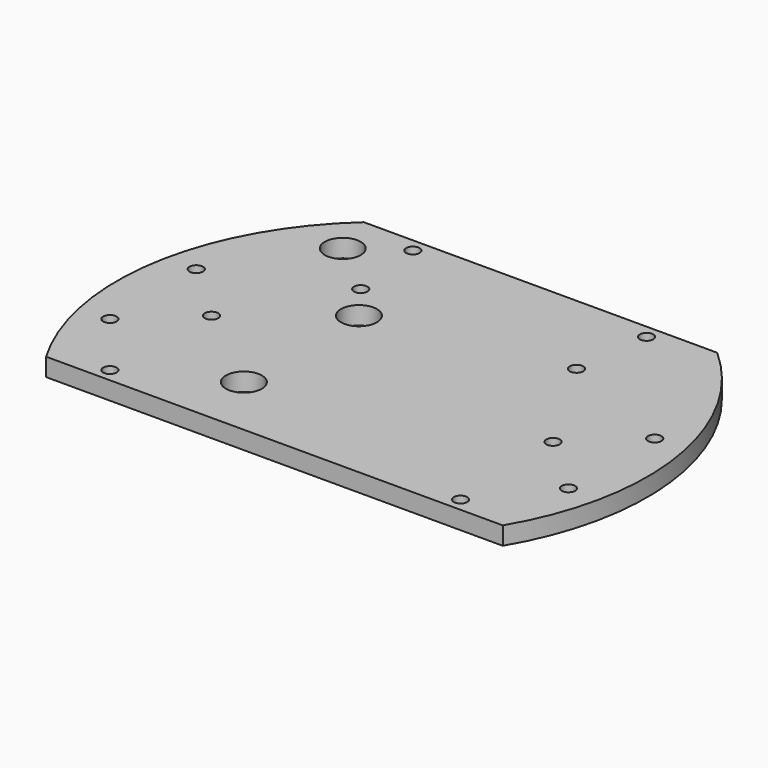
from build123d import *

# Parameters (mm, degrees)
CYLINDER1474_R     = 1.5
CYLINDER1474_DEPTH = 100
CYLINDER1473_R     = 1.5
CYLINDER1473_DEPTH = 100
CYLINDER1472_R     = 1.5
CYLINDER1472_DEPTH = 32
CYLINDER1471_R     = 1.5
CYLINDER1471_DEPTH = 32
BOX516_W           = 200
BOX516_H           = 100
BOX516_DEPTH       = 100
BOX515_W           = 200
BOX515_H           = 100
BOX515_DEPTH       = 100
CYLINDER1464_R     = 4
CYLINDER1464_DEPTH = 100
CYLINDER1465_R     = 4
CYLINDER1465_DEPTH = 100
CYLINDER1466_R     = 4
CYLINDER1466_DEPTH = 100
CYLINDER1467_R     = 4
CYLINDER1467_DEPTH = 100
CYLINDER1468_R     = 4
CYLINDER1468_DEPTH = 100
CYLINDER1469_R     = 4
CYLINDER1469_DEPTH = 100
CYLINDER1470_R     = 4
CYLINDER1470_DEPTH = 100
CYLINDER1463_R     = 4
CYLINDER1463_DEPTH = 100
CYLINDER1456_R     = 1.5
CYLINDER1456_DEPTH = 100
CYLINDER1457_R     = 1.5
CYLINDER1457_DEPTH = 100
CYLINDER1458_R     = 1.5
CYLINDER1458_DEPTH = 100
CYLINDER1459_R     = 1.5
CYLINDER1459_DEPTH = 100
CYLINDER1460_R     = 1.5
CYLINDER1460_DEPTH = 100
CYLINDER1461_R     = 1.5
CYLINDER1461_DEPTH = 100
CYLINDER1462_R     = 1.5
CYLINDER1462_DEPTH = 100
CYLINDER1455_R     = 1.5
CYLINDER1455_DEPTH = 100
CYLINDER1454_R     = 59
CYLINDER1454_DEPTH = 4


with BuildPart() as obj1:
    # Cylinder1474 → Cylinder1474 (new body)
    with BuildSketch(Plane(origin=(14, 0, -60), x_dir=(1, 0, 0), z_dir=(0, 0, 1))):
        Circle(CYLINDER1474_R)
    extrude(amount=CYLINDER1474_DEPTH)


with BuildPart() as obj2:
    # Cylinder1473 → Cylinder1473 (new body)
    with BuildSketch(Plane(origin=(90, 0, -60), x_dir=(1, 0, 0), z_dir=(0, 0, 1))):
        Circle(CYLINDER1473_R)
    extrude(amount=CYLINDER1473_DEPTH)

    # Compound888: union obj1
    add(obj1.part)


with BuildPart() as obj3:
    # Cylinder1472 → Cylinder1472 (new body)
    with BuildSketch(Plane(origin=(78, 41, -42), x_dir=(1, 0, 0), z_dir=(0, 0, 1))):
        Circle(CYLINDER1472_R)
    extrude(amount=CYLINDER1472_DEPTH)


with BuildPart() as compound887:
    # Cylinder1471 → Cylinder1471 (new body)
    with BuildSketch(Plane(origin=(26, 41, -42), x_dir=(1, 0, 0), z_dir=(0, 0, 1))):
        Circle(CYLINDER1471_R)
    extrude(amount=CYLINDER1471_DEPTH)

    # Compound887: union obj3
    add(obj3.part)


with BuildPart() as krychle516:
    # Box516 → Box516 (new body)
    with BuildSketch(Plane(origin=(-60, 44, -90), x_dir=(1, 0, 0), z_dir=(0, 0, 1))):
        with Locations((100, 50)):
            Rectangle(BOX516_W, BOX516_H)
    extrude(amount=BOX516_DEPTH)


with BuildPart() as krychle515:
    # Box515 → Box515 (new body)
    with BuildSketch(Plane(origin=(-60, -130, -90), x_dir=(1, 0, 0), z_dir=(0, 0, 1))):
        with Locations((100, 50)):
            Rectangle(BOX515_W, BOX515_H)
    extrude(amount=BOX515_DEPTH)


with BuildPart() as obj4:
    # Cylinder1464 → Cylinder1464 (new body)
    with BuildSketch(Plane(origin=(-16, 34, -90), x_dir=(1, 0, 0), z_dir=(0, 0, 1))):
        Circle(CYLINDER1464_R)
    extrude(amount=CYLINDER1464_DEPTH)


with BuildPart() as obj5:
    # Cylinder1465 → Cylinder1465 (new body)
    with BuildSketch(Plane(origin=(-16, -34, -90), x_dir=(1, 0, 0), z_dir=(0, 0, 1))):
        Circle(CYLINDER1465_R)
    extrude(amount=CYLINDER1465_DEPTH)


with BuildPart() as obj6:
    # Cylinder1466 → Cylinder1466 (new body)
    with BuildSketch(Plane(origin=(34, -16, -90), x_dir=(1, 0, 0), z_dir=(0, 0, 1))):
        Circle(CYLINDER1466_R)
    extrude(amount=CYLINDER1466_DEPTH)


with BuildPart() as obj7:
    # Cylinder1467 → Cylinder1467 (new body)
    with BuildSketch(Plane(origin=(16, 34, -90), x_dir=(1, 0, 0), z_dir=(0, 0, 1))):
        Circle(CYLINDER1467_R)
    extrude(amount=CYLINDER1467_DEPTH)


with BuildPart() as obj8:
    # Cylinder1468 → Cylinder1468 (new body)
    with BuildSketch(Plane(origin=(16, -34, -90), x_dir=(1, 0, 0), z_dir=(0, 0, 1))):
        Circle(CYLINDER1468_R)
    extrude(amount=CYLINDER1468_DEPTH)


with BuildPart() as obj9:
    # Cylinder1469 → Cylinder1469 (new body)
    with BuildSketch(Plane(origin=(-34, 16, -90), x_dir=(1, 0, 0), z_dir=(0, 0, 1))):
        Circle(CYLINDER1469_R)
    extrude(amount=CYLINDER1469_DEPTH)


with BuildPart() as obj10:
    # Cylinder1470 → Cylinder1470 (new body)
    with BuildSketch(Plane(origin=(34, 16, -90), x_dir=(1, 0, 0), z_dir=(0, 0, 1))):
        Circle(CYLINDER1470_R)
    extrude(amount=CYLINDER1470_DEPTH)


with BuildPart() as obj11:
    # Cylinder1463 → Cylinder1463 (new body)
    with BuildSketch(Plane(origin=(-34, -16, -90), x_dir=(1, 0, 0), z_dir=(0, 0, 1))):
        Circle(CYLINDER1463_R)
    extrude(amount=CYLINDER1463_DEPTH)

    # Compound886: union obj4, obj5, obj6, obj7, obj8, obj9, obj10
    add(obj4.part)
    add(obj5.part)
    add(obj6.part)
    add(obj7.part)
    add(obj8.part)
    add(obj9.part)
    add(obj10.part)


with BuildPart() as obj12:
    # Cylinder1456 → Cylinder1456 (new body)
    with BuildSketch(Plane(origin=(103, 12, -60), x_dir=(1, 0, 0), z_dir=(0, 0, 1))):
        Circle(CYLINDER1456_R)
    extrude(amount=CYLINDER1456_DEPTH)


with BuildPart() as obj13:
    # Cylinder1457 → Cylinder1457 (new body)
    with BuildSketch(Plane(origin=(76, 24, -60), x_dir=(1, 0, 0), z_dir=(0, 0, 1))):
        Circle(CYLINDER1457_R)
    extrude(amount=CYLINDER1457_DEPTH)


with BuildPart() as obj14:
    # Cylinder1458 → Cylinder1458 (new body)
    with BuildSketch(Plane(origin=(91, -27, -60), x_dir=(1, 0, 0), z_dir=(0, 0, 1))):
        Circle(CYLINDER1458_R)
    extrude(amount=CYLINDER1458_DEPTH)


with BuildPart() as obj15:
    # Cylinder1459 → Cylinder1459 (new body)
    with BuildSketch(Plane(origin=(13, -27, -60), x_dir=(1, 0, 0), z_dir=(0, 0, 1))):
        Circle(CYLINDER1459_R)
    extrude(amount=CYLINDER1459_DEPTH)


with BuildPart() as obj16:
    # Cylinder1460 → Cylinder1460 (new body)
    with BuildSketch(Plane(origin=(28, 24, -60), x_dir=(1, 0, 0), z_dir=(0, 0, 1))):
        Circle(CYLINDER1460_R)
    extrude(amount=CYLINDER1460_DEPTH)


with BuildPart() as obj17:
    # Cylinder1461 → Cylinder1461 (new body)
    with BuildSketch(Plane(origin=(1, -12, -60), x_dir=(1, 0, 0), z_dir=(0, 0, 1))):
        Circle(CYLINDER1461_R)
    extrude(amount=CYLINDER1461_DEPTH)


with BuildPart() as obj18:
    # Cylinder1462 → Cylinder1462 (new body)
    with BuildSketch(Plane(origin=(1, 12, -60), x_dir=(1, 0, 0), z_dir=(0, 0, 1))):
        Circle(CYLINDER1462_R)
    extrude(amount=CYLINDER1462_DEPTH)


with BuildPart() as obj19:
    # Cylinder1455 → Cylinder1455 (new body)
    with BuildSketch(Plane(origin=(103, -12, -60), x_dir=(1, 0, 0), z_dir=(0, 0, 1))):
        Circle(CYLINDER1455_R)
    extrude(amount=CYLINDER1455_DEPTH)

    # Compound885: union obj12, obj13, obj14, obj15, obj16, obj17, obj18
    add(obj12.part)
    add(obj13.part)
    add(obj14.part)
    add(obj15.part)
    add(obj16.part)
    add(obj17.part)
    add(obj18.part)


with BuildPart() as cut509:
    # Cylinder1454 → Cylinder1454 (new body)
    with BuildSketch(Plane(origin=(52, 0, -26), x_dir=(1, 0, 0), z_dir=(0, 0, 1))):
        Circle(CYLINDER1454_R)
    extrude(amount=CYLINDER1454_DEPTH)

    # Cut505: cut obj19
    add(obj19.part, mode=Mode.SUBTRACT)

    # Cut506: cut obj11
    add(obj11.part, mode=Mode.SUBTRACT)

    # Cut507: cut Krychle515
    add(krychle515.part, mode=Mode.SUBTRACT)

    # Cut508: cut Krychle516
    add(krychle516.part, mode=Mode.SUBTRACT)

    # Cut: cut Compound887
    add(compound887.part, mode=Mode.SUBTRACT)

    # Cut509: cut obj2
    add(obj2.part, mode=Mode.SUBTRACT)


solid = cut509.part
